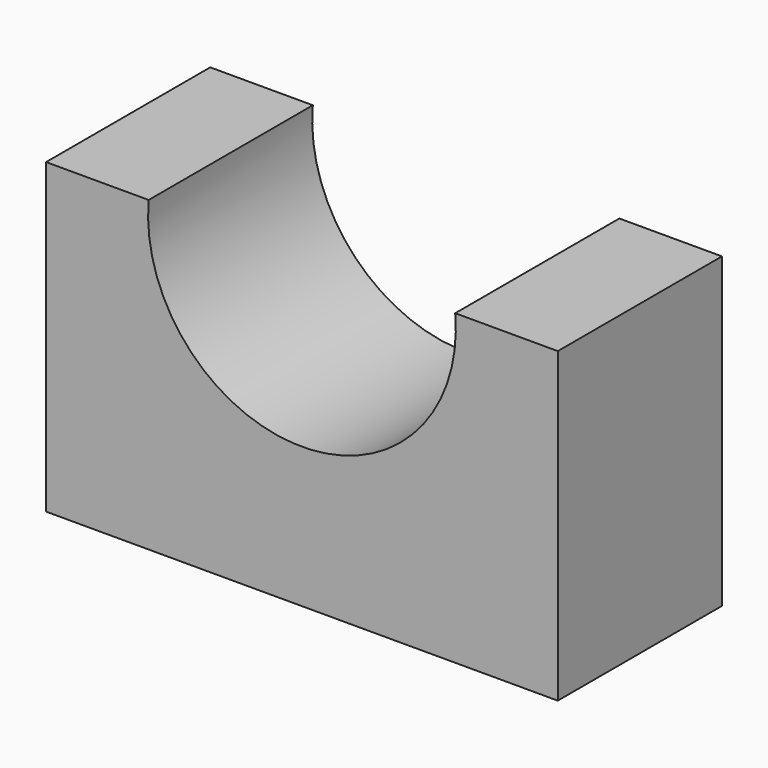
from build123d import *

# Parameters (mm, degrees)
F1_DEPTH = 25.4


with BuildPart() as f1:
    # F0 (on Front) → F1 (new body)
    with BuildSketch(Plane.XZ):
        with BuildLine():
            Line((12.7, 38.1), (0, 38.1))
            Line((0, 38.1), (0, 0))
            Line((0, 0), (63.352665, 0))
            Line((63.352665, 0), (63.352665, 38.1))
            Line((63.352665, 38.1), (50.652665, 38.1))
            ThreePointArc((50.652665, 38.1), (31.676333, 17.376293), (12.7, 38.1))
        make_face()
    extrude(amount=-F1_DEPTH)


solid = f1.part
